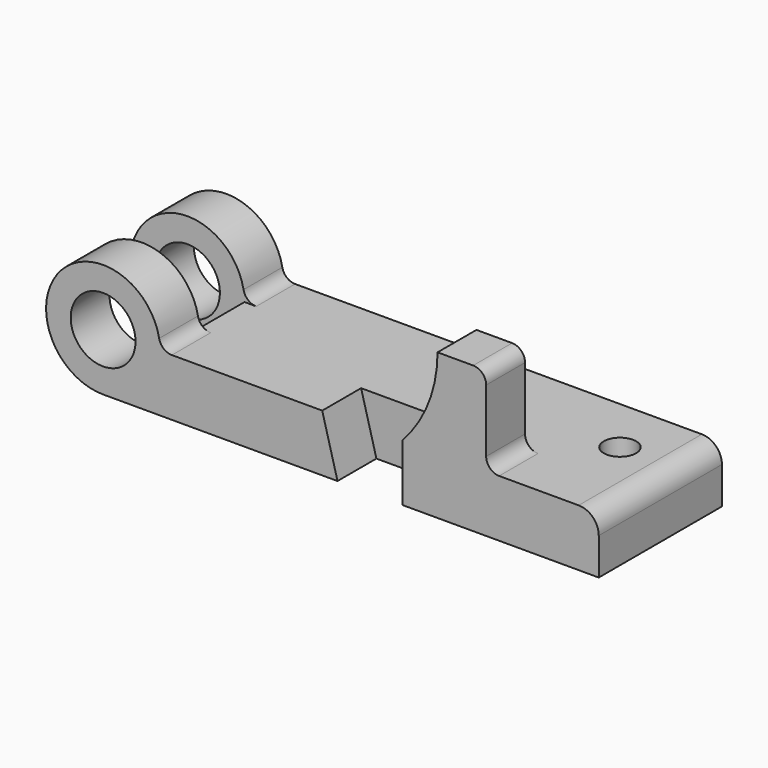
from build123d import *

# Parameters (mm, degrees)
F0_R     = 12.7
F1_DEPTH = 30.1625
F2_DEPTH = 11.1633
F4_DEPTH = 19.05
F5_DEPTH = 19.05
F6_R     = 6.35
F7_DEPTH = 22.353
F8_R     = 7.874
F9_R     = 5.08
F10_R    = 5.08


with BuildPart() as f1:
    # F0 (on Front) → F1 (new body, symmetric)
    with BuildSketch(Plane.XZ):
        with BuildLine():
            ThreePointArc((0, -22.352), (15.8052507731, -15.8052507731), (22.352, 0))
            ThreePointArc((22.352, 0), (-15.8052507731, 15.8052507731), (0, -22.352))
        make_face()
        Circle(F0_R, mode=Mode.SUBTRACT)
        with BuildLine():
            Line((85.852, 0), (22.352, 0))
            ThreePointArc((22.352, 0), (15.8052507731, -15.8052507731), (0, -22.352))
            Line((0, -22.352), (91.8464, -22.352))
            Line((91.8464, -22.352), (85.852, 0))
        make_face()
        Polygon((117.2464, 0), (85.852, 0), (91.8464, -22.352), (117.2464, -22.352), align=None)
        Polygon((150.0886, 0), (117.2464, 0), (117.2464, -22.352), (194.2084, -22.352), (194.2084, 0), align=None)
    extrude(amount=F1_DEPTH, both=True)

    # F0 (on Front) → F2 (cut, symmetric)
    with BuildSketch(Plane.XZ):
        with BuildLine():
            ThreePointArc((0, -22.352), (15.8052507731, -15.8052507731), (22.352, 0))
            ThreePointArc((22.352, 0), (-15.8052507731, 15.8052507731), (0, -22.352))
        make_face()
        Circle(F0_R, mode=Mode.SUBTRACT)
    extrude(amount=F2_DEPTH, both=True, mode=Mode.SUBTRACT)

    # F3 (on face) → F4 (cut)
    with BuildSketch(Plane.XZ.offset(30.1625)):
        Polygon((117.2464, 0), (85.852, 0), (91.8464, -22.352), (117.2464, -22.352), align=None)
    extrude(amount=-F4_DEPTH, mode=Mode.SUBTRACT)

    # F3 (on face) → F5 (join)
    with BuildSketch(Plane.XZ.offset(30.1625)):
        with BuildLine():
            ThreePointArc((131.0386, 34.798), (127.4644153616, 16.0823576341), (117.2464, 0))
            Line((117.2464, 0), (150.0886, 0))
            Line((150.0886, 0), (150.0886, 34.798))
            Line((150.0886, 34.798), (131.0386, 34.798))
        make_face()
    extrude(amount=-F5_DEPTH)

    # F6 (on face) → F7 (cut, through all)
    with BuildSketch(Plane.XY):
        with Locations((172.1485, 7.8105)):
            Circle(F6_R)
    extrude(amount=-F7_DEPTH, mode=Mode.SUBTRACT)

    # F8
    f8_edges = [f1.edges().sort_by_distance(p)[0] for p in [
        (194.2084, 0, 0),
    ]]
    fillet(f8_edges, radius=F8_R)

    # F9
    f9_edges = [f1.edges().sort_by_distance(p)[0] for p in [
        (150.0886, -20.6375, 34.798),
    ]]
    fillet(f9_edges, radius=F9_R)

    # F10
    f10_edges = [f1.edges().sort_by_distance(p)[0] for p in [
        (22.352, -20.6629, 0),
        (22.352, 20.6629, 0),
        (150.0886, -20.6375, 0),
    ]]
    fillet(f10_edges, radius=F10_R)


solid = f1.part
